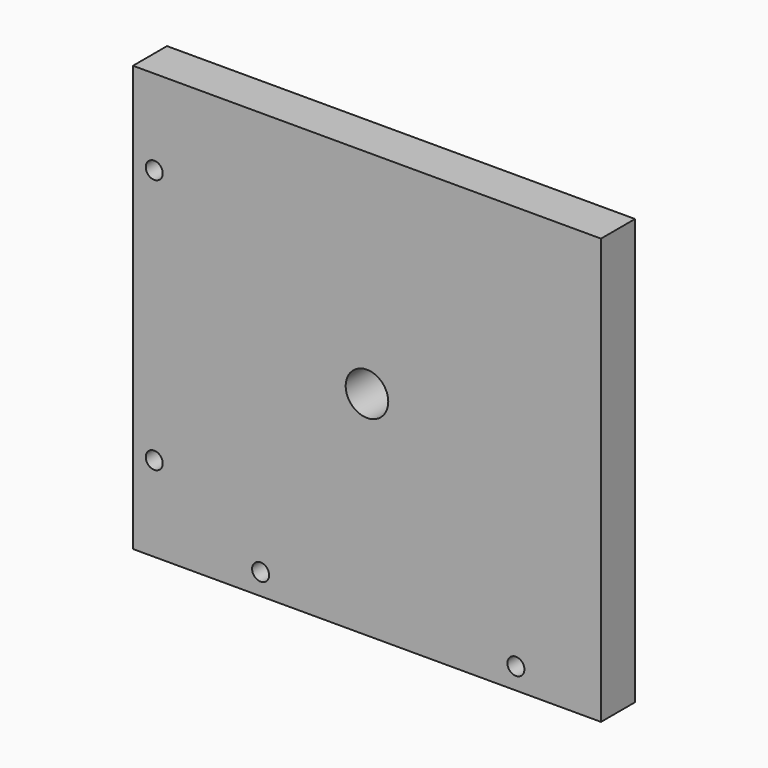
from build123d import *

# Parameters (mm, degrees)
F0_W     = 110
F0_H     = 100
F0_R     = 2
F0_R_2   = 5
F1_DEPTH = 10


with BuildPart() as f1:
    # F0 (on Front) → F1 (new body)
    with BuildSketch(Plane.XZ):
        Rectangle(F0_W, F0_H)
        with Locations((-50, -30)):
            Circle(F0_R, mode=Mode.SUBTRACT)
        with Locations((-25, -45)):
            Circle(F0_R, mode=Mode.SUBTRACT)
        with Locations((35, -45)):
            Circle(F0_R, mode=Mode.SUBTRACT)
        with Locations((-50, 30)):
            Circle(F0_R, mode=Mode.SUBTRACT)
        Circle(F0_R_2, mode=Mode.SUBTRACT)
    extrude(amount=F1_DEPTH)


solid = f1.part
